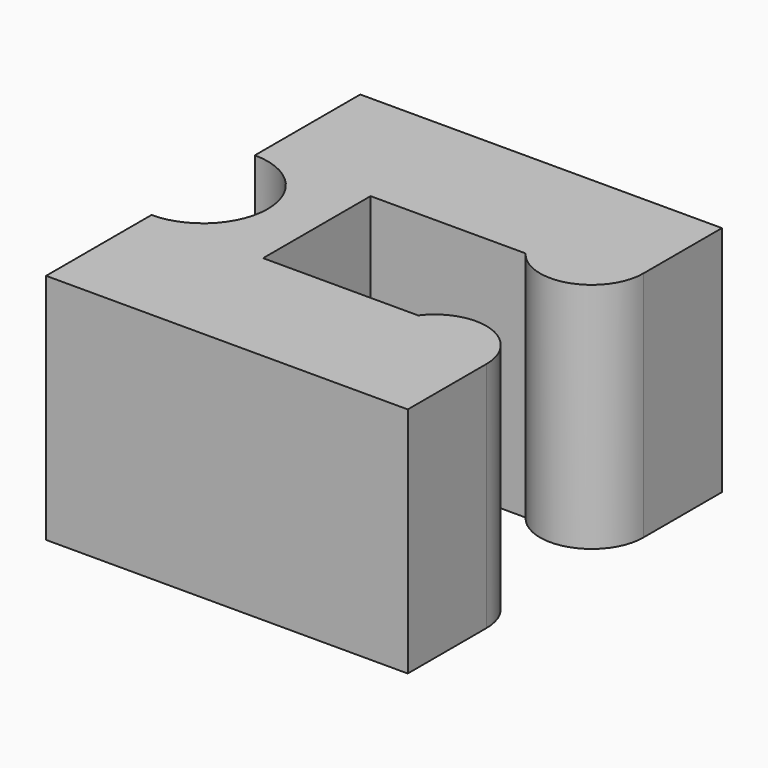
from build123d import *

# Parameters (mm, degrees)
F1_DEPTH = 5.715


with BuildPart() as f1:
    # F0 (on Top) → F1 (new body)
    with BuildSketch(Plane.XY):
        with BuildLine():
            Line((8.89, 9.652), (0, 9.652))
            Line((0, 9.652), (0, 6.4135))
            ThreePointArc((0, 6.4135), (1.5875, 4.826), (0, 3.2385))
            Line((0, 3.2385), (0, 0))
            Line((0, 0), (8.89, 0))
            Line((8.89, 0), (8.89, 2.413))
            ThreePointArc((8.89, 2.413), (8.021609, 3.617828), (6.604, 3.175))
            Line((6.604, 3.175), (2.794, 3.175))
            Line((2.794, 3.175), (2.794, 6.477))
            Line((2.794, 6.477), (6.604, 6.477))
            ThreePointArc((6.604, 6.477), (8.021609, 6.034172), (8.89, 7.239))
            Line((8.89, 7.239), (8.89, 9.652))
        make_face()
    extrude(amount=F1_DEPTH)


solid = f1.part
